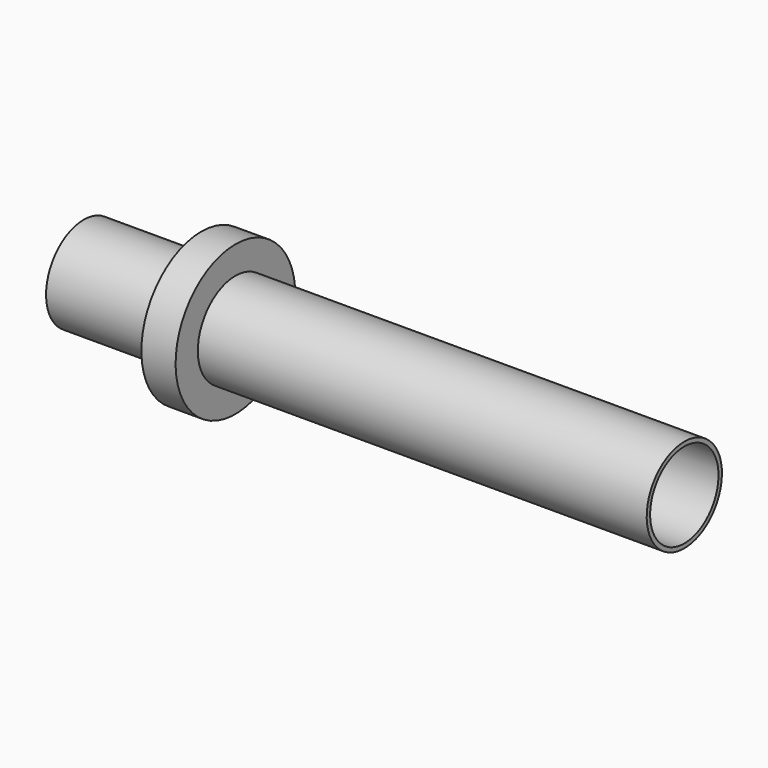
from build123d import *


with BuildPart() as f1:
    # F0 (on Front) → F1 (revolve)
    with BuildSketch(Plane.XZ):
        Polygon((-13.619311, 2.2), (-19.119311, 2.2), (-19.119311, 0), (8.980689, 0), (8.980689, 2.2), (-12.019311, 2.2), (-12.019311, 3.5), (-13.619311, 3.5), align=None)
    revolve(axis=Axis((-4.034162, 0, 0), (1, 0, 0)))

    # F2 (on Front) → F3 (revolve, cut)
    with BuildSketch(Plane.XZ):
        Polygon((-13.465806, 2), (-19.465806, 2), (-19.465806, 0), (10.834194, 0), (10.834194, 2), (-12.165806, 2), (-12.165806, 3.2), (-13.465806, 3.2), align=None)
    revolve(axis=Axis((-4.82097, 0, 0), (-1, 0, 0)), mode=Mode.SUBTRACT)


solid = f1.part
